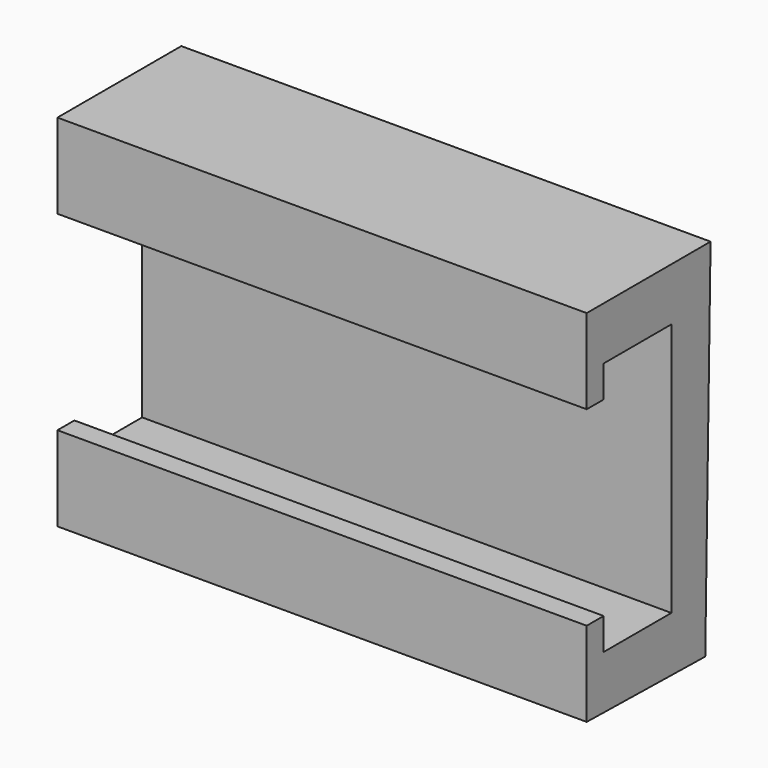
from build123d import *

# Parameters (mm, degrees)
F1_DEPTH = 6350


with BuildPart() as f1:
    # F0 (on Right) → F1 (new body)
    with BuildSketch(Plane.YZ):
        Polygon((0, 1524), (0, 0), (0, -1524), (-1016, -1524), (-1016, -1143), (-1270, -1143), (-1270, -2159), (507.700164, -2191.651612), (587.610033, 2159), (-1270, 2159), (-1270, 1143), (-1016, 1143), (-1016, 1524), align=None)
    extrude(amount=F1_DEPTH)


solid = f1.part
